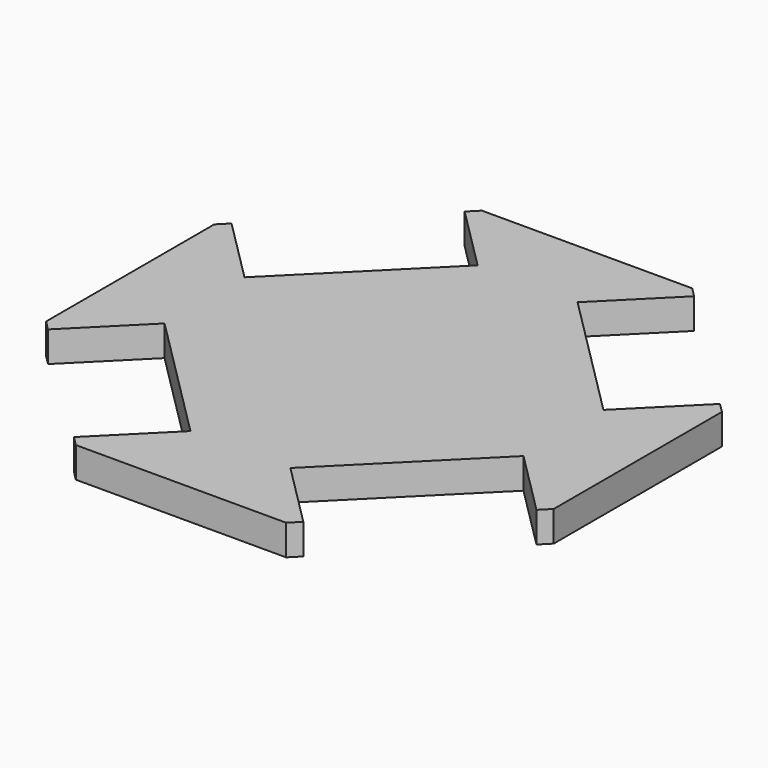
from build123d import *

# Parameters (mm, degrees)
F1_DEPTH = 12.7
F2_W     = 76.2
F2_H     = 12.7
F3_DEPTH = 38.1
F4_W     = 76.2
F4_H     = 12.7
F5_DEPTH = 38.1
F6_W     = 76.2
F6_H     = 12.7
F7_DEPTH = 38.1
F8_W     = 76.2
F8_H     = 12.7
F9_DEPTH = 38.1


with BuildPart() as f1:
    # F0 (on Top) → F1 (new body)
    with BuildSketch(Plane.XY):
        Polygon((34.9385468854, 114.4016), (-52.5428857533, 114.4016), (-114.4016, 52.5428857533), (-114.4016, -34.9385468854), (-52.5428857533, -96.7972611321), (34.9385468854, -96.7972611321), (96.7972611321, -34.9385468854), (96.7972611321, 52.5428857533), align=None)
    extrude(amount=F1_DEPTH)

    # F2 (on face) → F3 (cut)
    with BuildSketch(Plane(origin=(65.8679040087, -65.8679040087, 0), x_dir=(0.7071067812, 0.7071067812, 0), z_dir=(0.7071067812, -0.7071067812, 0))):
        with Locations((0, 6.35)):
            Rectangle(F2_W, F2_H)
    extrude(amount=-F3_DEPTH, mode=Mode.SUBTRACT)

    # F4 (on face) → F5 (cut)
    with BuildSketch(Plane(origin=(-74.6700734427, -74.6700734427, 0), x_dir=(0.7071067812, -0.7071067812, 0), z_dir=(-0.7071067812, -0.7071067812, 0))):
        with Locations((-12.4481473918, 6.35)):
            Rectangle(F4_W, F4_H)
    extrude(amount=-F5_DEPTH, mode=Mode.SUBTRACT)

    # F6 (on face) → F7 (cut)
    with BuildSketch(Plane(origin=(-83.4722428766, 83.4722428766, 0), x_dir=(-0.7071067812, -0.7071067812, 0), z_dir=(-0.7071067812, 0.7071067812, 0))):
        with Locations((0, 6.35)):
            Rectangle(F6_W, F6_H)
    extrude(amount=-F7_DEPTH, mode=Mode.SUBTRACT)

    # F8 (on face) → F9 (cut)
    with BuildSketch(Plane(origin=(74.6700734427, 74.6700734427, 0), x_dir=(-0.7071067812, 0.7071067812, 0), z_dir=(0.7071067812, 0.7071067812, 0))):
        with Locations((12.4481473918, 6.35)):
            Rectangle(F8_W, F8_H)
    extrude(amount=-F9_DEPTH, mode=Mode.SUBTRACT)


solid = f1.part
